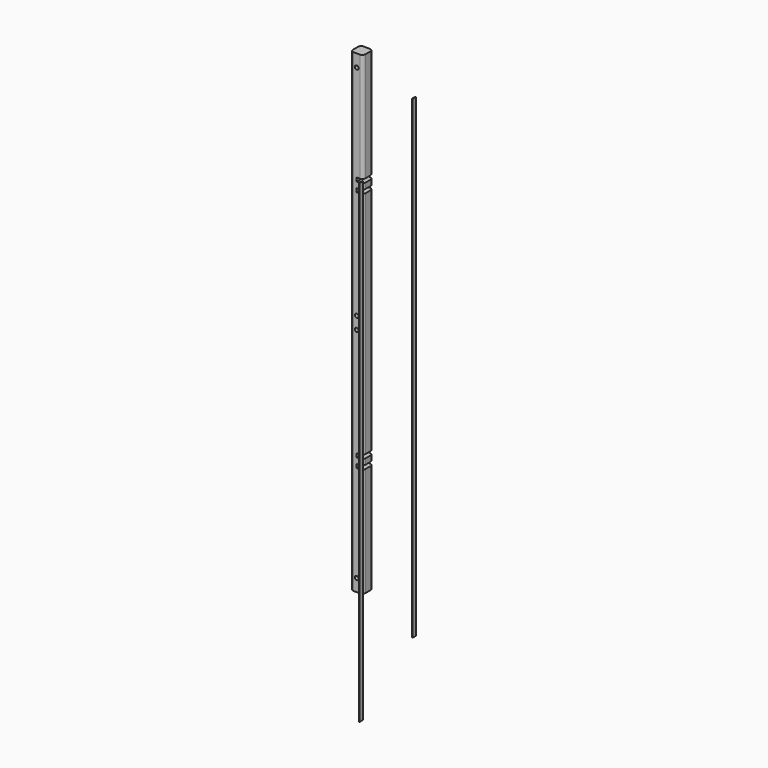
from build123d import *

# Parameters (mm, degrees)
F1_DEPTH  = 965.2
F2_W      = 8.46582
F2_H      = 965.2
F3_DEPTH  = 1.27
F4_W      = 8.466582
F4_H      = 965.2
F5_DEPTH  = 1.27
F6_W      = 6.35
F6_H      = 7.62
F7_DEPTH  = 12.7
F8_DEPTH  = 12.7
F10_R     = 3.81
F11_DEPTH = 25.4
F12_DEPTH = 25.4


with BuildPart() as f1:
    # F0 (on Top) → F1 (new body)
    with BuildSketch(Plane.XY):
        with BuildLine():
            ThreePointArc((12.7, 6.35), (10.8401280605, 10.8401280605), (6.35, 12.7))
            Line((6.35, 12.7), (-6.35, 12.7))
            ThreePointArc((-6.35, 12.7), (-10.8401280605, 10.8401280605), (-12.7, 6.35))
            Line((-12.7, 6.35), (-12.7, -6.35))
            ThreePointArc((-12.7, -6.35), (-10.8401280605, -10.8401280605), (-6.35, -12.7))
            Line((-6.35, -12.7), (6.35, -12.7))
            ThreePointArc((6.35, -12.7), (10.8401280605, -10.8401280605), (12.7, -6.35))
            Line((12.7, -6.35), (12.7, 6.35))
        make_face()
    extrude(amount=F1_DEPTH)

    # F6 (on face) → F7 (cut)
    with BuildSketch(Plane.YZ.offset(12.7)):
        with Locations((-9.525, 739.14)):
            Rectangle(F6_W, F6_H)
        with Locations((-3.175, 739.14)):
            Rectangle(F6_W, F6_H)
        with Locations((3.175, 739.14)):
            Rectangle(F6_W, F6_H)
        with Locations((9.525, 739.14)):
            Rectangle(F6_W, F6_H)
        with Locations((9.525, 720.09)):
            Rectangle(F6_W, F6_H)
        with Locations((3.175, 720.09)):
            Rectangle(F6_W, F6_H)
        with Locations((-3.175, 720.09)):
            Rectangle(F6_W, F6_H)
        with Locations((-9.525, 720.09)):
            Rectangle(F6_W, F6_H)
    extrude(amount=-F7_DEPTH, mode=Mode.SUBTRACT)

    # F6 (on face) → F8 (cut)
    with BuildSketch(Plane.YZ.offset(12.7)):
        with Locations((-9.525, 245.11)):
            Rectangle(F6_W, F6_H)
        with Locations((-3.175, 245.11)):
            Rectangle(F6_W, F6_H)
        with Locations((3.175, 245.11)):
            Rectangle(F6_W, F6_H)
        with Locations((9.525, 245.11)):
            Rectangle(F6_W, F6_H)
        with Locations((9.525, 226.06)):
            Rectangle(F6_W, F6_H)
        with Locations((3.175, 226.06)):
            Rectangle(F6_W, F6_H)
        with Locations((-3.175, 226.06)):
            Rectangle(F6_W, F6_H)
        with Locations((-9.525, 226.06)):
            Rectangle(F6_W, F6_H)
    extrude(amount=-F8_DEPTH, mode=Mode.SUBTRACT)

    # F10 (on face) → F11 (cut)
    with BuildSketch(Plane.XZ.offset(12.7)):
        with BuildLine():
            ThreePointArc((3.81, 939.8), (2.6940768363, 942.4940768363), (0, 943.61))
            ThreePointArc((0, 943.61), (-2.6940768363, 937.1059231637), (3.81, 939.8))
        make_face()
        with Locations((0, 495.3)):
            Circle(F10_R)
        with Locations((0, 469.9)):
            Circle(F10_R)
    extrude(amount=-F11_DEPTH, mode=Mode.SUBTRACT)

    # F10 (on face) → F12 (cut)
    with BuildSketch(Plane.XZ.offset(12.7)):
        with BuildLine():
            ThreePointArc((3.81, 25.4), (-2.6940768363, 28.0940768363), (0, 21.59))
            ThreePointArc((0, 21.59), (2.6940768363, 22.7059231637), (3.81, 25.4))
        make_face()
    extrude(amount=-F12_DEPTH, mode=Mode.SUBTRACT)


with BuildPart() as f3:
    # F2 (on Right) → F3 (new body)
    with BuildSketch(Plane.YZ):
        with Locations((-161.1978975164, 354.095693922)):
            Rectangle(F2_W, F2_H)
    extrude(amount=F3_DEPTH)


with BuildPart() as f5:
    # F4 (on Right) → F5 (new body)
    with BuildSketch(Plane.YZ):
        with Locations((132.0330001415, 344.3213368416)):
            Rectangle(F4_W, F4_H)
    extrude(amount=F5_DEPTH)


with BuildPart() as f3_1:
    # F9: moved
    add(f3.part.moved(Location((127, 0, 0))))


solid = Compound([f1.part, f5.part, f3_1.part])
